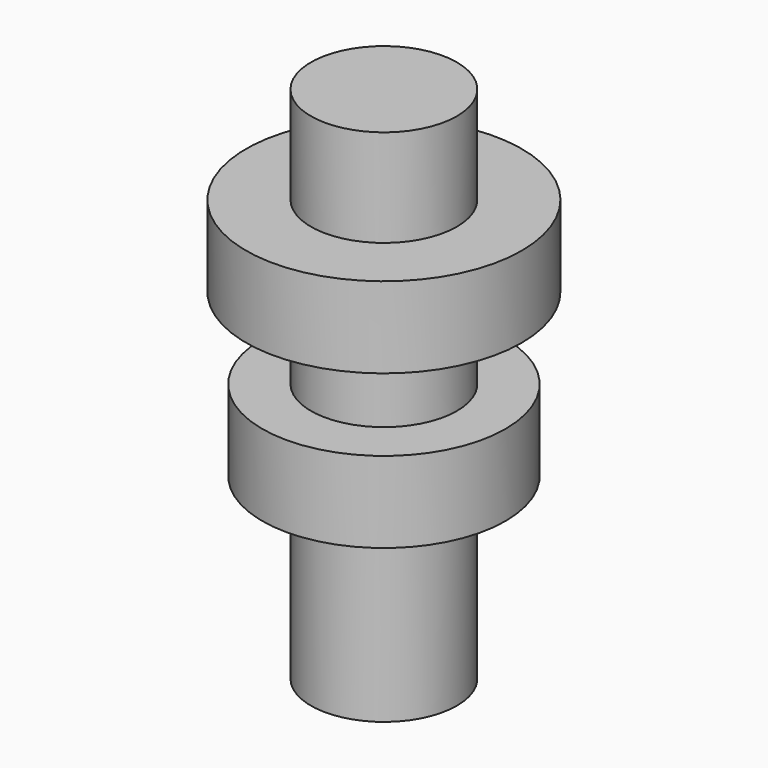
from build123d import *

# Parameters (mm, degrees)
F0_R          = 37.5
F1_DEPTH      = 25
F2_R          = 22.5
F3_DEPTH      = 80
F3_DEPTH_BACK = 80
F5_START      = 25
F4_R          = 42.5
F5_DEPTH      = 25


with BuildPart() as f1:
    # F0 (on Top) → F1 (new body)
    with BuildSketch(Plane.XY):
        Circle(F0_R)
    extrude(amount=F1_DEPTH)

    # F2 (on face) → F3 (join, two sides)
    with BuildSketch(Plane.XY.offset(25)) as f3_sk:
        Circle(F2_R)
    extrude(amount=-F3_DEPTH)
    extrude(f3_sk.sketch, amount=F3_DEPTH_BACK)

    # F4 (on face) → F5 (join)
    with BuildSketch(Plane.XY.offset(25).offset(F5_START)):
        Circle(F4_R)
    extrude(amount=F5_DEPTH)


solid = f1.part
